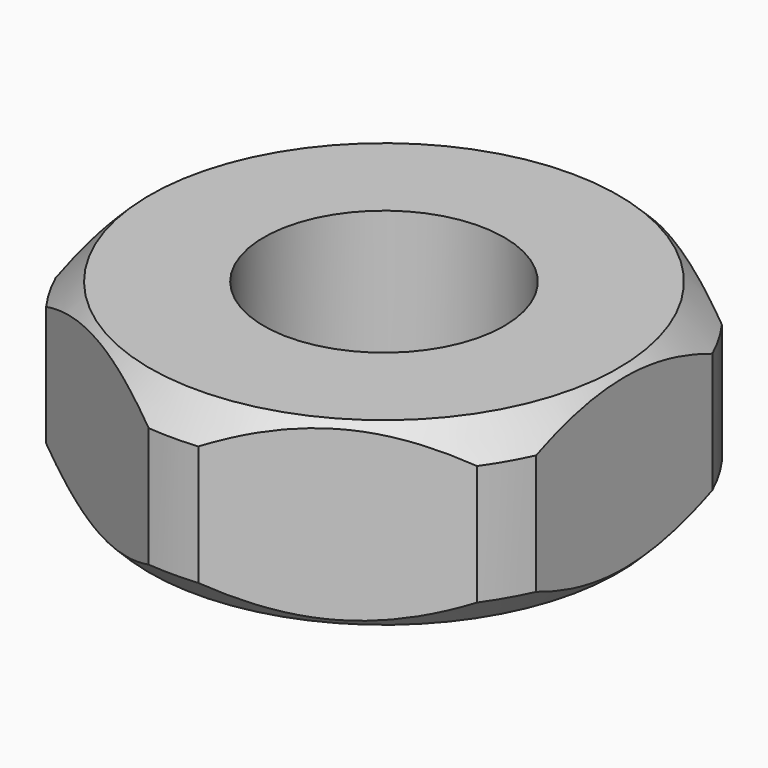
from build123d import *

# Parameters (mm, degrees)
SKETCH_R  = 1
PAD_DEPTH = 0.75


with BuildPart() as body001:
    # Sketch001 → Revolution (revolve)
    with BuildSketch(Plane.YZ):
        Polygon((2.2, 0.5), (1.7, 1), (2.5, 1), (2.5, -1), (1.7, -1), (2.2, -0.5), align=None)
    revolve(axis=Axis((0, 0, 0), (0, 0, 1)))


with BuildPart() as cut:
    # Sketch → Pad (new body, symmetric)
    with BuildSketch(Plane.XY):
        Polygon((2, 1.154701), (0, 2.309401), (-2, 1.154701), (-2, -1.154701), (0, -2.309401), (2, -1.154701), align=None)
        Circle(SKETCH_R, mode=Mode.SUBTRACT)
    extrude(amount=PAD_DEPTH, both=True)

    # Cut: cut Body001
    add(body001.part, mode=Mode.SUBTRACT)


solid = cut.part
